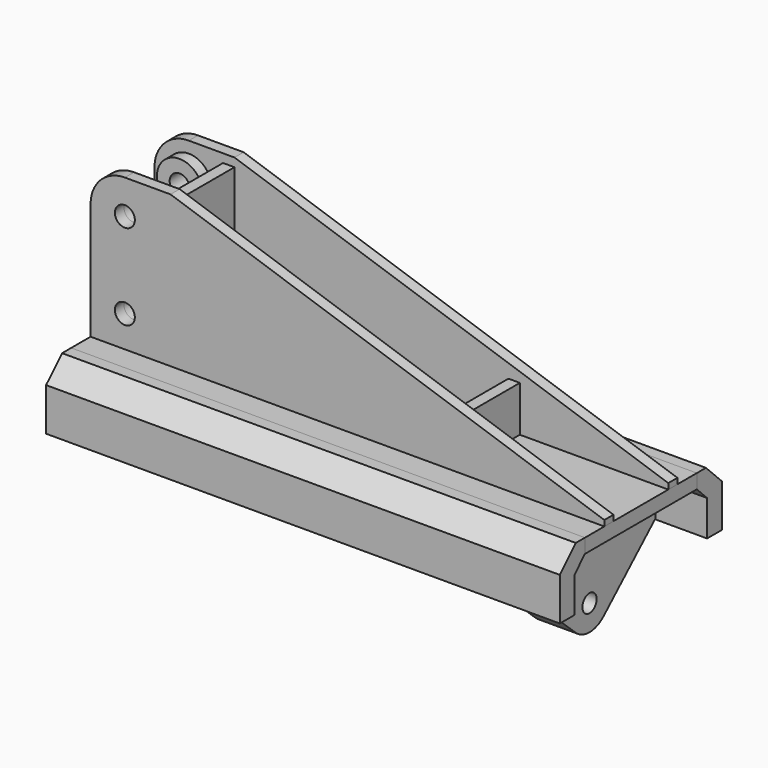
from build123d import *

# Parameters (mm, degrees)
F0_W      = 1143
F0_H      = 311.15
F1_DEPTH  = 31.75
F2_W      = 25.4
F2_H      = 152.4
F3_DEPTH  = 317.5
F4_W      = 25.4
F4_H      = 152.4
F5_DEPTH  = 101.6
F7_DEPTH  = 25.4
F9_D      = 44.45
F10_R     = 50.8
F10_R_2   = 22.225
F11_DEPTH = 25.4
F14_R     = 19.812
F15_DEPTH = 88.9
F16_W     = 152.4
F16_H     = 19.05
F17_DEPTH = 152.4
F19_DEPTH = 285.751
F22_DEPTH = 1143


with BuildPart() as f1:
    # F0 (on Top) → F1 (new body)
    with BuildSketch(Plane.XY):
        Rectangle(F0_W, F0_H)
    extrude(amount=F1_DEPTH)

    # F2 (on face) → F3 (join)
    with BuildSketch(Plane.XY.offset(31.75)):
        with Locations((-406.4, 0)):
            Rectangle(F2_W, F2_H)
    extrude(amount=F3_DEPTH)

    # F4 (on face) → F5 (join)
    with BuildSketch(Plane.XY.offset(31.75)):
        with Locations((228.6, 0)):
            Rectangle(F4_W, F4_H)
    extrude(amount=F5_DEPTH)


with BuildPart() as f7:
    # F6 (on face) → F7 (new body)
    with BuildSketch(Plane.XZ.offset(76.2)):
        with BuildLine():
            Line((-571.5, 292.1), (-571.5, 31.75))
            Line((-571.5, 31.75), (571.5, 31.75))
            Line((571.5, 31.75), (571.5, 44.45))
            Line((571.5, 44.45), (-393.7, 368.3))
            Line((-393.7, 368.3), (-495.3, 368.3))
            ThreePointArc((-495.3, 368.3), (-549.1815367264, 345.9815367264), (-571.5, 292.1))
        make_face()
    extrude(amount=F7_DEPTH)

    # F9 (through all)
    with Locations(Plane.XZ.offset(101.6)):
        with Locations((-495.3, 292.1), (-495.3, 101.6)):
            Hole(F9_D / 2)

    # F10 (on face) → F11 (join)
    with BuildSketch(Plane(origin=(0, -76.2, 0), x_dir=(-1, 0, 0), z_dir=(0, 1, 0))):
        with Locations((495.3, 101.6)):
            Circle(F10_R)
        with Locations((495.3, 101.6)):
            Circle(F10_R_2, mode=Mode.SUBTRACT)
        with Locations((495.3, 292.1)):
            Circle(F10_R)
        with Locations((495.3, 292.1)):
            Circle(F10_R_2, mode=Mode.SUBTRACT)
    extrude(amount=F11_DEPTH)


with BuildPart() as f12_1:
    # F12: instance of F7
    add(f7.part.mirror(Plane.XZ))


with BuildPart() as f15:
    # F14 (on offset) → F15 (new body)
    with BuildSketch(Plane(origin=(368.3, 0, 0), x_dir=(0, -1, 0), z_dir=(-1, 0, 0))):
        with BuildLine():
            Line((155.575, 0), (-155.575, 0))
            Line((-155.575, 0), (-184.15, -28.702))
            Line((-184.15, -28.702), (-184.15, -104.902))
            Line((-184.15, -104.902), (-38.7229986572, -238.8815580843))
            ThreePointArc((-38.7229986572, -238.8815580843), (-20.7848376589, -250.0863881522), (6.38e-08, -254))
            ThreePointArc((6.38e-08, -254), (20.7848377183, -250.086388129), (38.7229986572, -238.8815580843))
            Line((38.7229986572, -238.8815580843), (184.15, -104.902))
            Line((184.15, -104.902), (184.15, -28.702))
            Line((184.15, -28.702), (155.575, 0))
        make_face()
        with Locations((0, -196.85)):
            Circle(F14_R, mode=Mode.SUBTRACT)
    extrude(amount=-F15_DEPTH)


with BuildPart() as f17:
    # F16 (on face) → F17 (new body)
    with BuildSketch(Plane(origin=(0, 0, 0), x_dir=(1, 0, 0), z_dir=(0, 0, -1))):
        with Locations((292.1, -92.075)):
            Rectangle(F16_W, F16_H)
    extrude(amount=F17_DEPTH)

    # F18 (on face) → F19 (cut, through all)
    with BuildSketch(Plane(origin=(0, 101.6, 0), x_dir=(-1, 0, 0), z_dir=(0, 1, 0))):
        Polygon((-215.9, -12.7), (-355.6, -152.4), (-215.9, -152.4), align=None)
    extrude(amount=-F19_DEPTH, mode=Mode.SUBTRACT)


with BuildPart() as f20_1:
    # F20: instance of F17
    add(f17.part.mirror(Plane.XZ))


with BuildPart() as f22:
    # F21 (on face) → F22 (new body)
    with BuildSketch(Plane.YZ.offset(571.5)):
        Polygon((180.975, 31.75), (155.575, 31.75), (155.575, 0), (184.15, -28.702), (184.15, -107.95), (191.3808882236, -107.95), (225.425, -107.95), (225.425, -12.7), align=None)
    extrude(amount=-F22_DEPTH)


with BuildPart() as f23_1:
    # F23: instance of F22
    add(f22.part.mirror(Plane.XZ))


solid = Compound([f1.part, f7.part, f12_1.part, f15.part, f17.part, f20_1.part, f22.part, f23_1.part])
